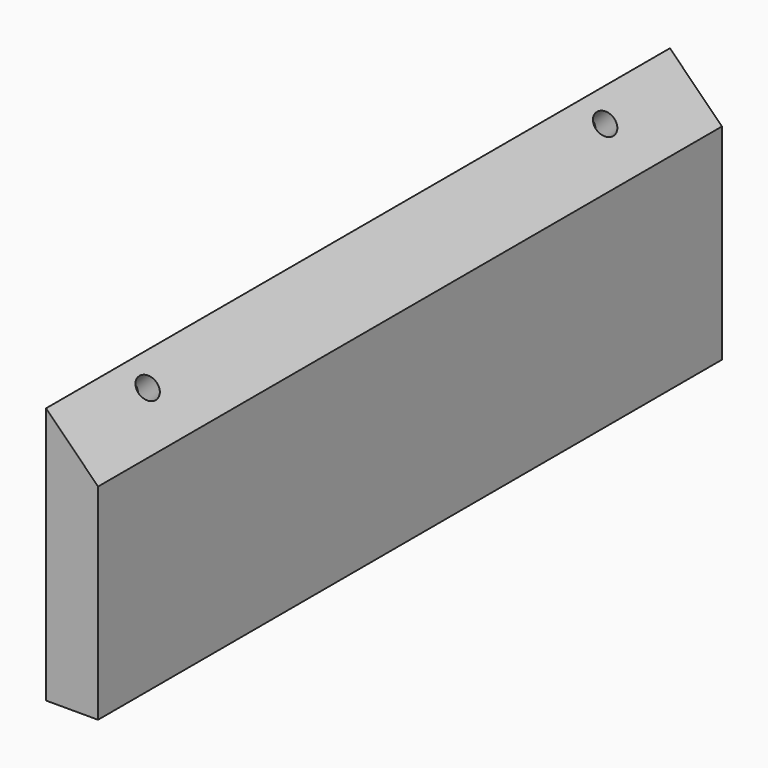
from build123d import *

# Parameters (mm, degrees)
F1_DEPTH = 150
F3_D     = 4.4
F3_DEPTH = 14.1
F3_TIP   = 1.3218933619


with BuildPart() as f1:
    # F0 (on Front) → F1 (new body)
    with BuildSketch(Plane.XZ):
        Polygon((10, 39.4974746831), (0, 49.4974746831), (0, 0), (10, 0), align=None)
    extrude(amount=F1_DEPTH)

    # F3
    with Locations(Plane(origin=(24.7487373415, 0, 24.7487373415), x_dir=(0.7071067812, 0, -0.7071067812), z_dir=(0.7071067812, 0, 0.7071067812))):
        with Locations((-30, -130), (-30, -20)):
            Hole(F3_D / 2, depth=F3_DEPTH)
            with Locations((0, 0, -(F3_DEPTH + F3_TIP / 2))):  # 118° drill point
                Cone(0, F3_D / 2, F3_TIP, mode=Mode.SUBTRACT)


solid = f1.part
